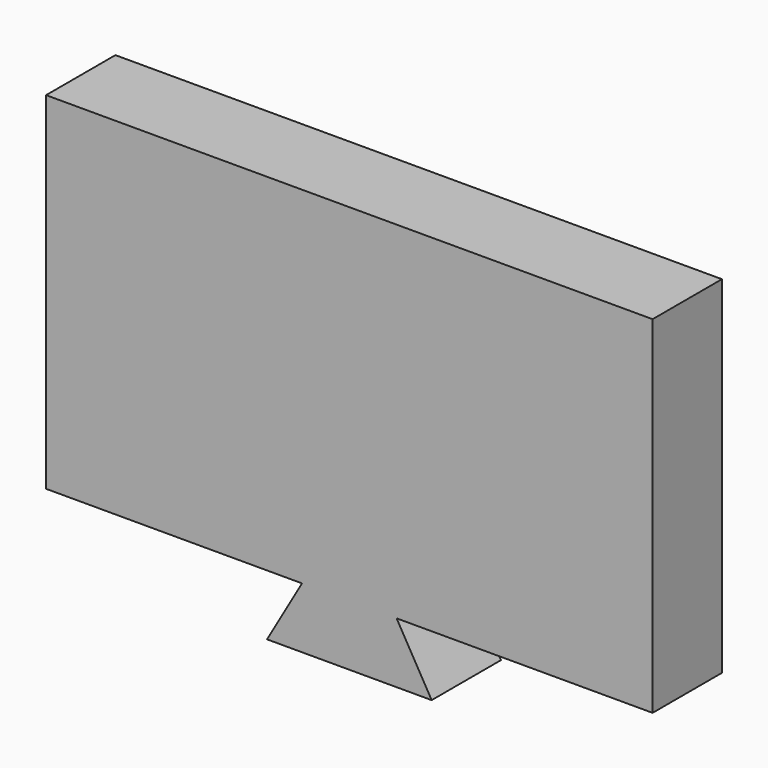
from build123d import *

# Parameters (mm, degrees)
F1_DEPTH = 10
F2_D     = 4.2
F2_DEPTH = 7.4
F2_TIP   = 1.2618073


with BuildPart() as f1:
    # F0 (on Front) → F1 (new body)
    with BuildSketch(Plane.XZ):
        Polygon((35, -20), (35, 0), (35, 20), (-35, 20), (-35, -20), (-5.4585481157, -20), (-9.5, -27), (0, -27), (9.5, -27), (5.4585481157, -20), align=None)
    extrude(amount=F1_DEPTH)

    # F2
    with Locations(Plane(origin=(0, 0, 0), x_dir=(1, 0, 0), z_dir=(0, 1, 0))):
        with Locations((0, 0)):
            Hole(F2_D / 2, depth=F2_DEPTH)
            with Locations((0, 0, -(F2_DEPTH + F2_TIP / 2))):  # 118° drill point
                Cone(0, F2_D / 2, F2_TIP, mode=Mode.SUBTRACT)


solid = f1.part
